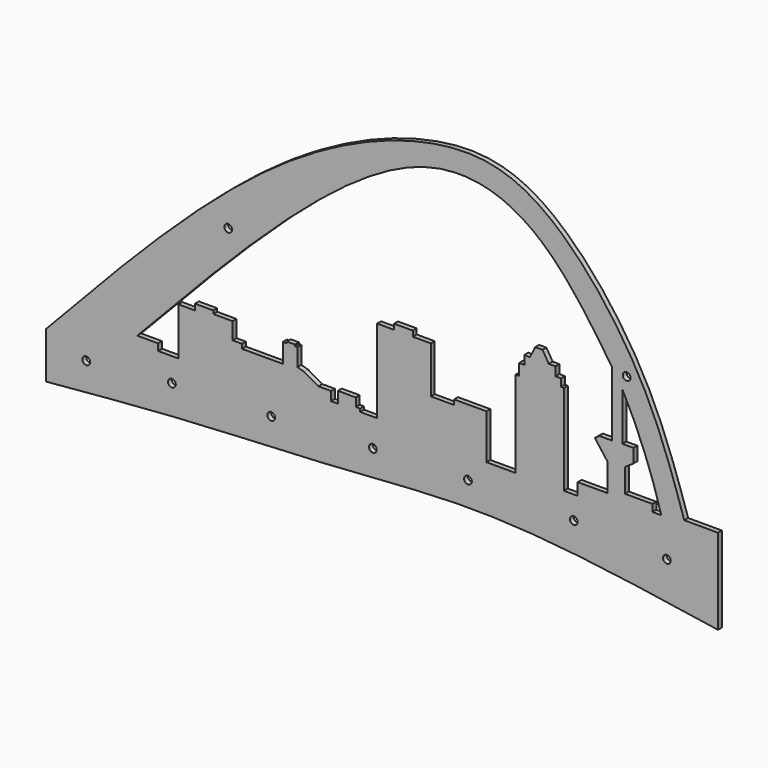
from build123d import *

# Parameters (mm, degrees)
F0_R     = 3.175
F1_DEPTH = 3.9878


with BuildPart() as f1:
    # F0 (on Front) → F1 (new body)
    with BuildSketch(Plane.XZ):
        with BuildLine():
            add(Edge.make_bspline(
                [(-164.2852276564, -141.3521319628), (-100.156843355, -73.1295208329), (11.2441296329, 45.3837606483), (154.0542989198, 104.7680480893), (241.1470776874, 91.9701309431), (324.8102257045, -9.5696449042), (346.9241198254, -76.9707890806), (357.5704693794, -109.4198971987)],
                knots=[0, 0, 0, 0, 0.2775234013, 0.4821012921, 0.6333720642, 0.8234933595, 1, 1, 1, 1], degree=3))
            Line((-164.2852276564, -141.3521319628), (-164.2852276564, -179.3255954981))
            add(Edge.make_bspline(
                [(385.1727545261, -179.3255954981), (348.0727643508, -173.6176506001), (275.9644217328, -162.5235655503), (177.1940206759, -154.8456122093), (68.7205096932, -164.9760811802), (-46.4274313326, -168.7339018432), (-124.8425084257, -175.7809407358), (-164.2852276564, -179.3255954981)],
                knots=[0, 0, 0, 0, 0.2004216256, 0.3895438025, 0.5875488784, 0.7925374253, 1, 1, 1, 1], degree=3))
            Line((385.1727545261, -179.3255954981), (385.1727545261, -139.626070857))
            Line((385.1727545261, -139.626070857), (385.1727545261, -109.4198971987))
            Line((385.1727545261, -109.4198971987), (357.5704693794, -109.4198971987))
        make_face()
        with Locations((-131.4172595739, -153.6118835211)):
            Circle(F0_R, mode=Mode.SUBTRACT)
        with Locations((-61.3888055086, -146.9776183367)):
            Circle(F0_R, mode=Mode.SUBTRACT)
        with Locations((19.8123361915, -144.4630026817)):
            Circle(F0_R, mode=Mode.SUBTRACT)
        with Locations((102.8972044587, -140.4408961535)):
            Circle(F0_R, mode=Mode.SUBTRACT)
        with Locations((180.7287931442, -137.9826813936)):
            Circle(F0_R, mode=Mode.SUBTRACT)
        with Locations((267.2542631626, -139.0251666307)):
            Circle(F0_R, mode=Mode.SUBTRACT)
        with Locations((343.3550000191, -142.1525925398)):
            Circle(F0_R, mode=Mode.SUBTRACT)
        with BuildLine():
            Line((306.9441020489, -70.8412900567), (306.9441020489, -31.4796595851))
            ThreePointArc((306.9441020489, -31.4796595851), (325.007737738, -70.8590701113), (338.8031721115, -111.9287535548))
            Line((338.8031721115, -111.9287535548), (331.5498530865, -111.9287535548))
            Line((331.5498530865, -111.9287535548), (331.5498530865, -106.1229780316))
            Line((331.5498530865, -106.1229780316), (309.1005086899, -106.1229780316))
            Line((309.1005086899, -106.1229780316), (309.1005086899, -86.8073999882))
            Line((309.1005086899, -86.8073999882), (316.0010874271, -82.0607170463))
            Line((316.0010874271, -82.0607170463), (316.0010874271, -70.8412900567))
            Line((316.0010874271, -70.8412900567), (306.9441020489, -70.8412900567))
        make_face(mode=Mode.SUBTRACT)
        with Locations((-15.3653593734, -20.4767584801)):
            Circle(F0_R, mode=Mode.SUBTRACT)
        with BuildLine():
            Line((-72.6297050714, -121.9821423292), (-89.7077471018, -121.9821423292))
            add(Edge.make_bspline(
                [(-89.7077471018, -121.9821423292), (-7.2301581396, -34.7309562714), (120.865310975, 100.7783590411), (238.8719165352, 69.902159723), (278.1365065251, 11.790489141), (298.2993423939, -18.0505476892)],
                knots=[0, 0, 0, 0, 0.4679649263, 0.7267936359, 1, 1, 1, 1], degree=3))
            Line((298.2993423939, -18.0505476892), (298.2993423939, -71.2728053331))
            Line((298.2993423939, -71.2728053331), (287.9675328732, -71.2728053331))
            Line((287.9675328732, -71.2728053331), (284.4450016498, -73.9484917618))
            Line((284.4450016498, -73.9484917618), (294.8680818081, -87.6704379916))
            Line((294.8680818081, -87.6704379916), (294.8680818081, -110.3058606386))
            Line((294.8680818081, -110.3058606386), (270.4292631626, -110.3058606386))
            Line((270.4292631626, -110.3058606386), (270.4292631626, -120.2213019133))
            Line((270.4292631626, -120.2213019133), (259.1095864773, -120.2213019133))
            Line((259.1095864773, -120.2213019133), (259.1095864773, -46.2383925915))
            Line((259.1095864773, -46.2383925915), (256.822347641, -46.2383925915))
            Line((256.822347641, -46.2383925915), (256.822347641, -40.0408916175))
            Line((256.822347641, -40.0408916175), (252.2478699684, -40.0408916175))
            Line((252.2478699684, -40.0408916175), (252.2478699684, -32.8498110175))
            Line((252.2478699684, -32.8498110175), (246.7488795519, -32.8498110175))
            Line((246.7488795519, -32.8498110175), (241.6834142365, -24.4151409715))
            Line((241.6834142365, -24.4151409715), (235.696554184, -24.4151409715))
            Line((235.696554184, -24.4151409715), (231.3337922096, -33.1406630576))
            Line((231.3337922096, -33.1406630576), (226.8488258123, -32.8498110175))
            Line((226.8488258123, -32.8498110175), (226.8488258123, -40.0408916175))
            Line((226.8488258123, -40.0408916175), (222.5793153048, -40.0408916175))
            Line((222.5793153048, -40.0408916175), (222.5793153048, -44.9229478836))
            Line((222.5793153048, -44.9229478836), (222.5793153048, -49.47938025))
            Line((222.5793153048, -49.47938025), (219.5296734571, -49.47938025))
            Line((219.5296734571, -49.47938025), (219.5296734571, -120.2213019133))
            Line((219.5296734571, -120.2213019133), (195.8424896002, -120.2213019133))
            Line((195.8424896002, -120.2213019133), (195.8424896002, -83.6197063327))
            Line((195.8424896002, -83.6197063327), (169.3105399609, -83.6197063327))
            Line((169.3105399609, -83.6197063327), (169.3105399609, -87.6704379916))
            Line((169.3105399609, -87.6704379916), (150.3449231386, -87.6704379916))
            Line((150.3449231386, -87.6704379916), (150.3449231386, -49.47938025))
            Line((150.3449231386, -49.47938025), (135.5753540993, -49.47938025))
            Line((135.5753540993, -49.47938025), (135.5753540993, -45.0673885643))
            Line((135.5753540993, -45.0673885643), (120.2631816268, -45.0673885643))
            Line((120.2631816268, -45.0673885643), (120.2631816268, -49.47938025))
            Line((120.2631816268, -49.47938025), (106.4620390534, -49.47938025))
            Line((106.4620390534, -49.47938025), (106.4620390534, -117.6377162337))
            Line((106.4620390534, -117.6377162337), (92.5758108497, -117.6377162337))
            Line((92.5758108497, -117.6377162337), (92.5758108497, -115.242421627))
            Line((92.5758108497, -115.242421627), (88.9491438866, -115.242421627))
            Line((88.9491438866, -115.242421627), (88.9491438866, -108.3453819156))
            Line((88.9491438866, -108.3453819156), (74.3256956339, -108.3453819156))
            Line((74.3256956339, -108.3453819156), (74.3256956339, -117.6377162337))
            Line((74.3256956339, -117.6377162337), (68.7189847231, -117.6377162337))
            Line((68.7189847231, -117.6377162337), (68.7189847231, -110.3058606386))
            Line((68.7189847231, -110.3058606386), (58.3681166172, -110.3058606386))
            Line((58.3681166172, -110.3058606386), (46.7234104872, -103.6015823483))
            Line((46.7234104872, -103.6015823483), (41.2449203432, -102.0648106933))
            Line((41.2449203432, -102.0648106933), (41.2449203432, -87.6704379916))
            Line((41.2449203432, -87.6704379916), (39.3215864897, -87.6704379916))
            Line((39.3215864897, -87.6704379916), (39.3215864897, -86.4217281342))
            Line((39.3215864897, -86.4217281342), (32.7077694237, -86.4217281342))
            Line((32.7077694237, -86.4217281342), (32.7077694237, -87.6704379916))
            Line((32.7077694237, -87.6704379916), (29.408339411, -87.6704379916))
            Line((29.408339411, -87.6704379916), (29.408339411, -103.6015823483))
            Line((29.408339411, -103.6015823483), (25.6323218346, -103.6015823483))
            Line((25.6323218346, -103.6015823483), (-4.1151833721, -103.6015823483))
            Line((-4.1151833721, -103.6015823483), (-4.1151833721, -100.0113710761))
            Line((-4.1151833721, -100.0113710761), (-11.8085052818, -100.0113710761))
            Line((-11.8085052818, -100.0113710761), (-11.8085052818, -86.211912334))
            Line((-11.8085052818, -86.211912334), (-27.5210384279, -86.211912334))
            Line((-27.5210384279, -86.211912334), (-27.5210384279, -83.6197063327))
            Line((-27.5210384279, -83.6197063327), (-42.6168069243, -83.6197063327))
            Line((-42.6168069243, -83.6197063327), (-42.6168069243, -88.4991511703))
            Line((-42.6168069243, -88.4991511703), (-56.1615861952, -88.4991511703))
            Line((-56.1615861952, -88.4991511703), (-56.1615861952, -127.4715065956))
            Line((-56.1615861952, -127.4715065956), (-72.6297050714, -127.4715065956))
            Line((-72.6297050714, -127.4715065956), (-72.6297050714, -121.9821423292))
        make_face(mode=Mode.SUBTRACT)
        with Locations((310.4767799377, -21.2401409715)):
            Circle(F0_R, mode=Mode.SUBTRACT)
    extrude(amount=F1_DEPTH)


solid = f1.part
